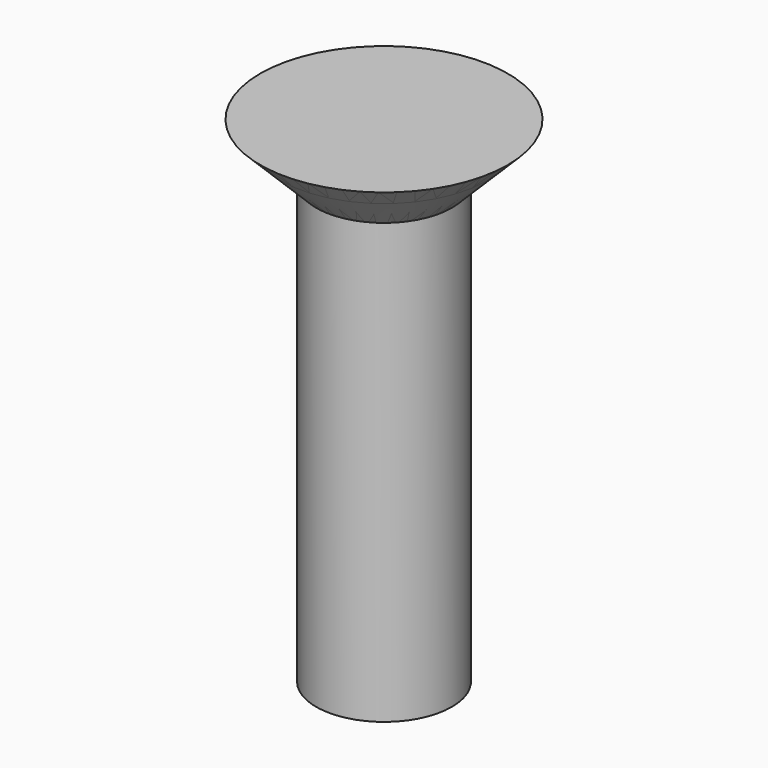
from build123d import *

# Parameters (mm, degrees)
F3_DEPTH = 1


with BuildPart() as f2:
    # F1 (on Front) → F2 (revolve)
    with BuildSketch(Plane.XZ):
        Polygon((3, 0), (1.5, 0), (1.5, -1.5), (1.645, -1.355), align=None)
        Polygon((1.5, 0), (0, 0), (0, -3), (1.5, -1.5), align=None)
        Polygon((1.5, -1.5), (0, -3), (0, -12), (1.5, -12), align=None)
    revolve(axis=Axis((0, 0, -6), (0, 0, -1)))

    # F0 (on Top) → F3 (cut)
    with BuildSketch(Plane.XY):
        Polygon((0.5773502692, 1), (-0.5773502692, 1), (-1.1547005384, 0), (-0.5773502692, -1), (0.5773502692, -1), (1.1547005384, 0), align=None)
    extrude(amount=-F3_DEPTH, mode=Mode.SUBTRACT)


with BuildPart() as f4:
    # F1 (on Front) → F4 (revolve)
    with BuildSketch(Plane.XZ):
        Polygon((1.5, -1.5), (0, -3), (0, -12), (1.5, -12), align=None)
        Polygon((1.5, 0), (0, 0), (0, -3), (1.5, -1.5), align=None)
        Polygon((3, 0), (1.5, 0), (1.5, -1.5), (1.645, -1.355), align=None)
        Polygon((1.645, -1.355), (1.5, -1.5), (1.5, -12), (1.645, -12), align=None)
    revolve(axis=Axis((0, 0, -6), (0, 0, -1)))


solid = Compound([f2.part, f4.part])
